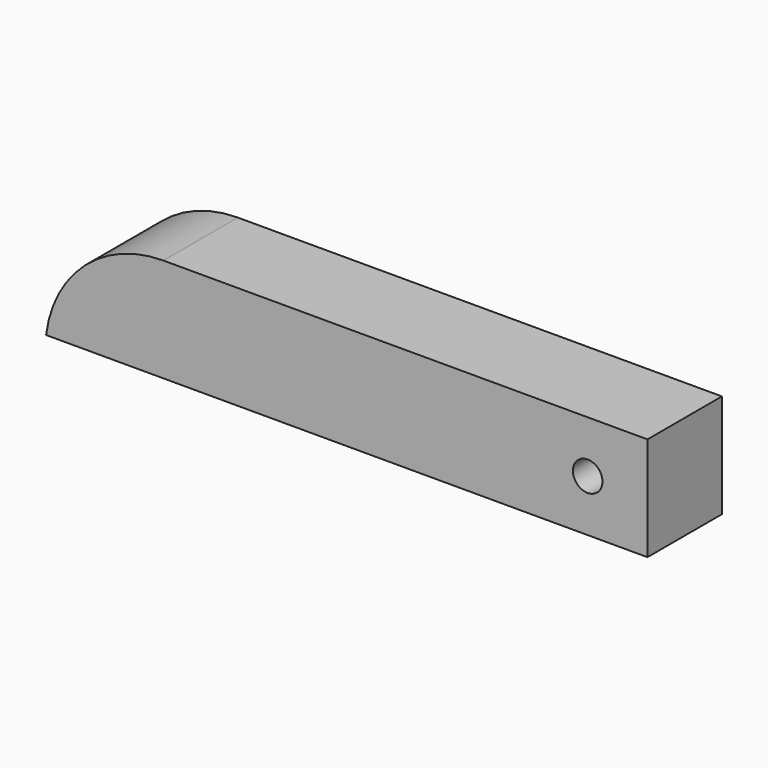
from build123d import *

# Parameters (mm, degrees)
F1_DEPTH = 2.5
F2_R     = 0.793333
F3_DEPTH = 25


with BuildPart() as f1:
    # F0 (on Front) → F1 (new body, symmetric)
    with BuildSketch(Plane.XZ):
        with BuildLine():
            ThreePointArc((-9.8298, 2.786768), (-14.036458, 1.193502), (-16.132149, -2.786768))
            Line((-16.132149, -2.786768), (16.1798, -2.786768))
            Line((16.1798, -2.786768), (16.1798, 2.786768))
            Line((16.1798, 2.786768), (-9.8298, 2.786768))
        make_face()
    extrude(amount=F1_DEPTH, both=True)

    # F2 (on face) → F3 (cut)
    with BuildSketch(Plane.XZ.offset(2.5)):
        with Locations((12.966358, 0)):
            Circle(F2_R)
    extrude(amount=-F3_DEPTH, mode=Mode.SUBTRACT)


solid = f1.part
